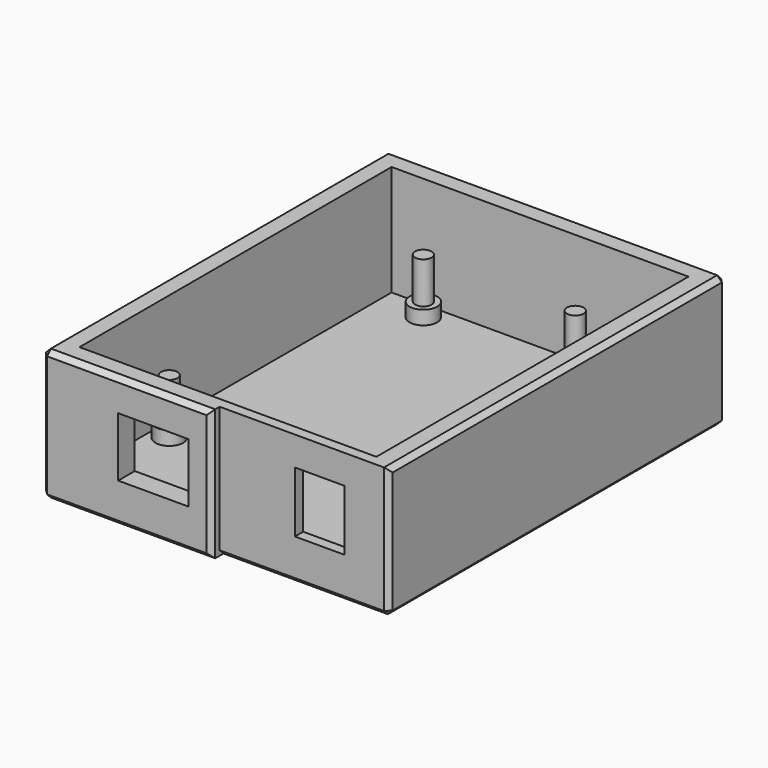
from build123d import *

# Parameters (mm, degrees)
F0_W      = 62.23
F0_H      = 79.375
F1_DEPTH  = 24.13
F2_T      = -3.81
F4_R      = 2.54
F5_DEPTH  = 2.54
F7_R      = 1.524
F8_DEPTH  = 7.62
F9_W      = 12.954
F9_H      = 10.922
F9_W_2    = 9.144
F9_H_2    = 11.176
F10_DEPTH = 3.81
F11_W     = 31.115
F11_H     = 24.13
F12_DEPTH = 1.905
F13_SIZE  = 0.889


with BuildPart() as f1:
    # F0 (on Top) → F1 (new body)
    with BuildSketch(Plane.XY):
        Rectangle(F0_W, F0_H)
    extrude(amount=F1_DEPTH)

    # F2
    f2_openings = [f1.faces().sort_by_distance(p)[0] for p in [
        (0, 0, 24.13),
    ]]
    offset(amount=F2_T, openings=f2_openings)

    # F4 (on face) → F5 (join)
    with BuildSketch(Plane.XY.offset(3.81)):
        with Locations((9.017, 32.7025)):
            Circle(F4_R)
        with Locations((-18.923, 32.7025)):
            Circle(F4_R)
        with Locations((-24.003, -19.3675)):
            Circle(F4_R)
        with Locations((24.13, -18.0975)):
            Circle(F4_R)
    extrude(amount=F5_DEPTH)

    # F7 (on offset) → F8 (join)
    with BuildSketch(Plane.XY.offset(6.35)):
        with Locations((9.017, 32.7025)):
            Circle(F7_R)
        with Locations((-18.923, 32.7025)):
            Circle(F7_R)
        with Locations((-24.003, -19.3675)):
            Circle(F7_R)
        with Locations((24.13, -18.0975)):
            Circle(F7_R)
    extrude(amount=F8_DEPTH)

    # F9 (on face) → F10 (cut, through all)
    with BuildSketch(Plane.XZ.offset(39.6875)):
        with Locations((-10.668, 12.827)):
            Rectangle(F9_W, F9_H)
        with Locations((18.415, 13.208)):
            Rectangle(F9_W_2, F9_H_2)
    extrude(amount=-F10_DEPTH, mode=Mode.SUBTRACT)

    # F11 (on face) → F12 (cut)
    with BuildSketch(Plane.XZ.offset(39.6875)):
        with Locations((15.5575, 12.065)):
            Rectangle(F11_W, F11_H)
    extrude(amount=-F12_DEPTH, mode=Mode.SUBTRACT)

    # F13
    f13_edges = [f1.edges().sort_by_distance(p)[0] for p in [
        (-15.5575, -39.6875, 24.13),
        (-31.115, 0, 24.13),
        (0, 39.6875, 24.13),
        (31.115, 39.6875, 12.065),
        (31.115, 0.9525, 24.13),
        (31.115, -37.7825, 12.065),
        (31.115, 0.9525, 0),
        (15.5575, -37.7825, 0),
        (0, -39.6875, 12.065),
        (-15.5575, -39.6875, 0),
        (-31.115, -39.6875, 12.065),
        (-31.115, 39.6875, 12.065),
        (-31.115, 0, 0),
        (0, 39.6875, 0),
    ]]
    chamfer(f13_edges, length=F13_SIZE)


solid = f1.part
